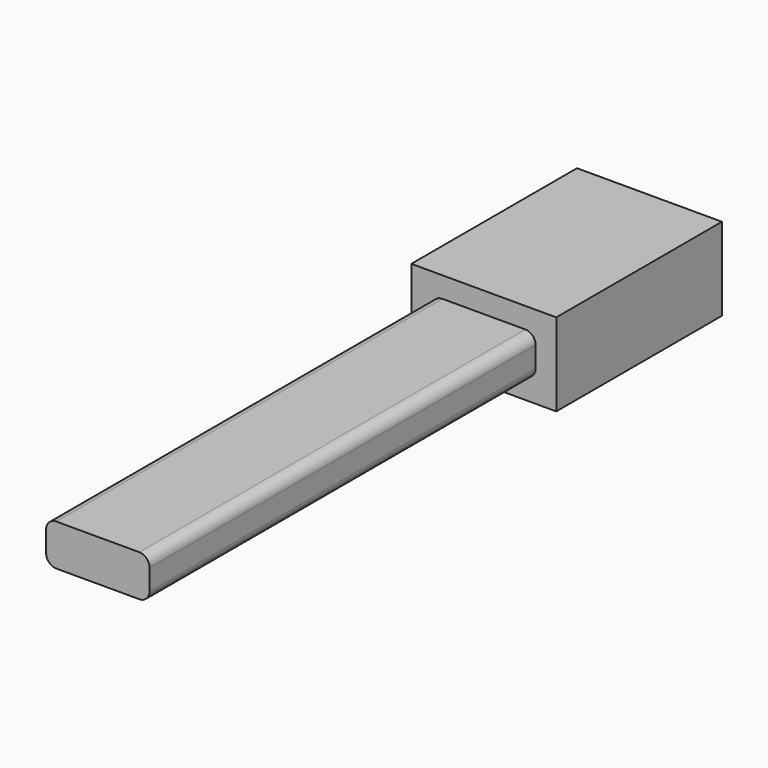
from build123d import *

# Parameters (mm, degrees)
F1_W     = 50
F1_H     = 20
F2_DEPTH = 233
F3_R     = 5
F4_W     = 70
F4_H     = 40
F5_DEPTH = 100


with BuildPart() as f2:
    # F1 (on Front) → F2 (new body)
    with BuildSketch(Plane.XZ):
        with Locations((-25, 10)):
            Rectangle(F1_W, F1_H)
    extrude(amount=F2_DEPTH)

    # F3
    f3_edges = [f2.edges().sort_by_distance(p)[0] for p in [
        (-50, -116.5, 20),
        (0, -116.5, 20),
        (-50, -116.5, 0),
        (0, -116.5, 0),
    ]]
    fillet(f3_edges, radius=F3_R)


with BuildPart() as f5:
    # F4 (on offset) → F5 (new body, through all)
    with BuildSketch(Plane.XZ.offset(-100)):
        with Locations((-25, 10)):
            Rectangle(F4_W, F4_H)
    extrude(amount=F5_DEPTH)


solid = Compound([f2.part, f5.part])
